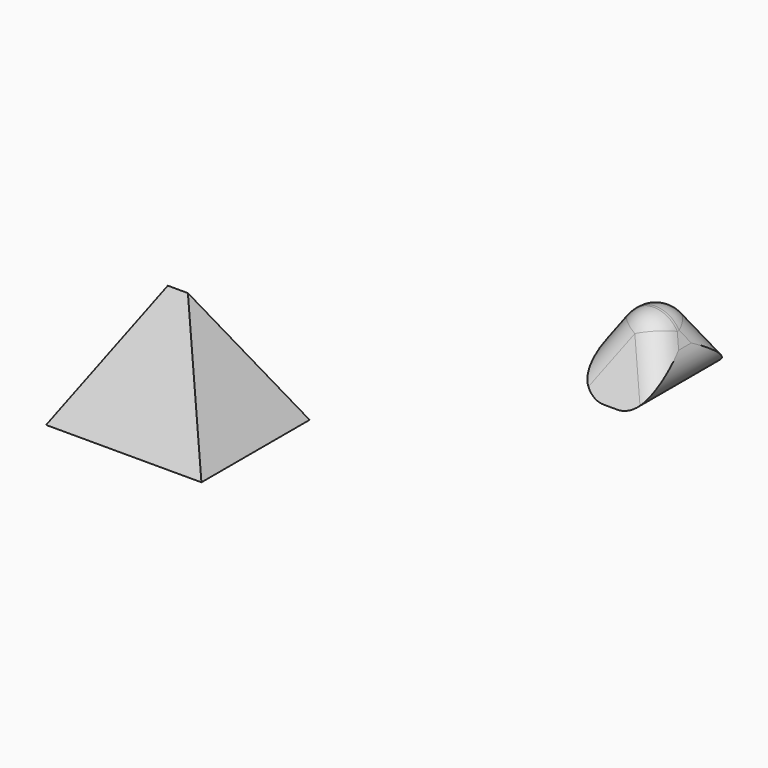
from build123d import *

# Parameters (mm, degrees)
F0_W     = 47.7973278612
F0_H     = 41.6194405407
F1_DEPTH = 67.564
F1_TAPER = 30
F0_W_2   = 33.1654958427
F0_H_2   = 33.8819082826
F2_R     = 8.382


with BuildPart() as f1:
    # F0 (on Top) → F1 (new body)
    with BuildSketch(Plane.XY):
        with Locations((-35.6750460342, -45.4242425039)):
            Rectangle(F0_W, F0_H)
    extrude(amount=F1_DEPTH, taper=F1_TAPER)


with BuildPart() as f1b:
    # F0 (on Top) → F1, piece 2 (new body)
    with BuildSketch(Plane.XY):
        with Locations((40.5730735511, 42.6588663831)):
            Rectangle(F0_W_2, F0_H_2)
    extrude(amount=F1_DEPTH, taper=F1_TAPER)

    # F2
    f2_edges = [f1b.edges().sort_by_distance(p)[0] for p in [
        (48.864446, 34.009287, 14.361083),
        (40.573074, 42.658866, 28.722162),
        (48.864447, 51.308446, 14.361082),
        (57.155821, 42.658866, 0),
        (32.2817, 34.009287, 14.361082),
        (32.2817, 51.308446, 14.361082),
        (23.990326, 42.658866, 0),
    ]]
    fillet(f2_edges, radius=F2_R)


solid = Compound([f1.part, f1b.part])
